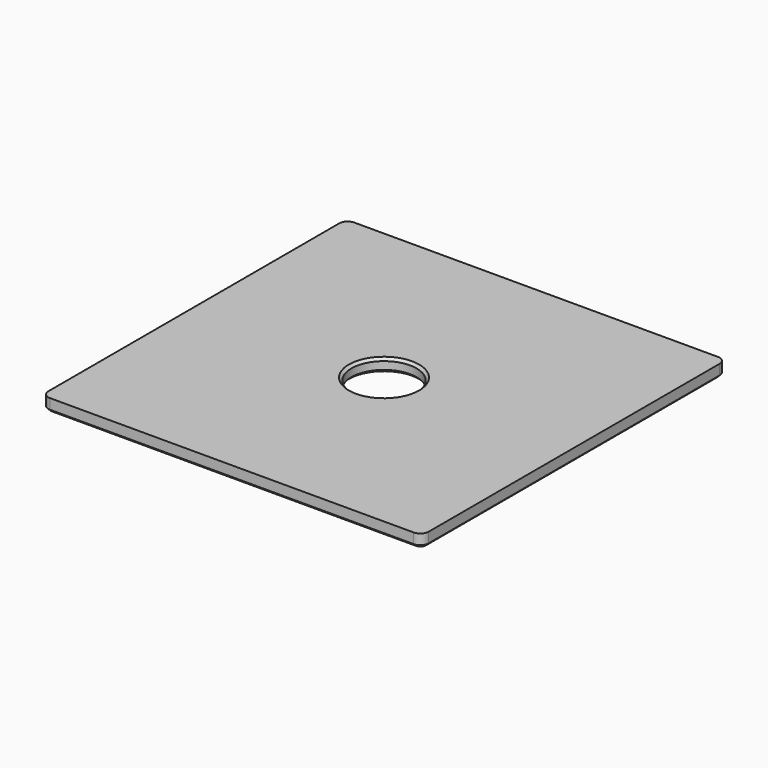
from build123d import *

# Parameters (mm, degrees)
F0_W     = 59.5
F0_H     = 59.5
F1_DEPTH = 2
F2_R     = 1.3
F3_R     = 5.1
F4_DEPTH = 25
F5_SIZE  = 0.4


with BuildPart() as f1:
    # F0 (on Top) → F1 (new body)
    with BuildSketch(Plane.XY):
        Rectangle(F0_W, F0_H)
    extrude(amount=F1_DEPTH)

    # F2
    f2_edges = [f1.edges().sort_by_distance(p)[0] for p in [
        (29.75, -29.75, 1),
        (-29.75, -29.75, 1),
        (29.75, 29.75, 1),
        (-29.75, 29.75, 1),
    ]]
    fillet(f2_edges, radius=F2_R)

    # F3 (on face) → F4 (cut)
    with BuildSketch(Plane.XY.offset(2)):
        Circle(F3_R)
    extrude(amount=-F4_DEPTH, mode=Mode.SUBTRACT)

    # F5
    f5_edges = [f1.edges().sort_by_distance(p)[0] for p in [
        (0, -29.75, 0),
        (-5.1, 0, 2),
        (-29.369239, -29.369239, 0),
        (29.369239, -29.369239, 0),
        (-29.75, 0, 0),
        (29.75, 0, 0),
        (-29.369239, 29.369239, 0),
        (29.369239, 29.369239, 0),
        (0, 29.75, 0),
        (-5.1, 0, 0),
    ]]
    chamfer(f5_edges, length=F5_SIZE)


solid = f1.part
